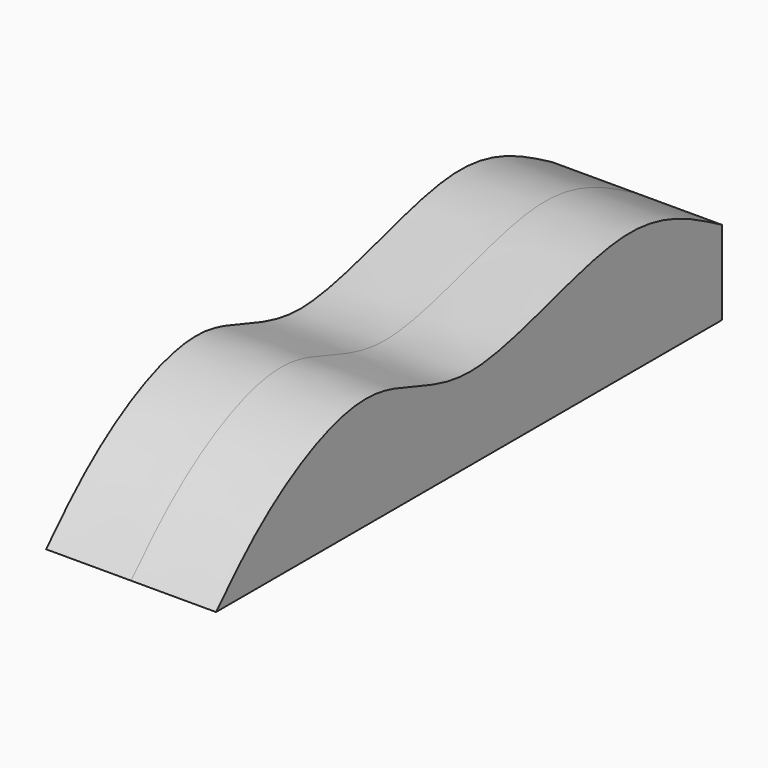
from build123d import *

# Parameters (mm, degrees)
F1_DEPTH = 15


with BuildPart() as f1:
    # F0 (on Right) → F1 (new body)
    with BuildSketch(Plane.YZ):
        with BuildLine():
            add(Edge.make_bspline(
                [(-55.5606980693, 0), (-51.6673719239, 4.1052683078), (-43.4144360964, 12.807471677), (-20.6630697057, 23.9042671323), (-0.3474787341, 8.9177754271), (34.7987202293, 26.8044740202), (49.5058398849, 18.4992658842), (56.0513019307, 14.803)],
                knots=[0, 0, 0, 0, 0.1734167354, 0.3676026962, 0.5604713525, 0.8043860288, 1, 1, 1, 1], degree=3))
            Line((-55.5606980693, 0), (-42.3695630282, 0))
            ThreePointArc((-42.3695630282, 0), (-30.3695630282, 12), (-18.3695630282, 0))
            Line((-18.3695630282, 0), (29.4915357069, 0))
            ThreePointArc((29.4915357069, 0), (38.8891638111, 15.7084417392), (52.8504369718, 3.8698012941))
            ThreePointArc((52.8504369718, 3.8698012941), (52.6890774169, 1.9085281333), (52.2093382366, 0))
            Line((52.2093382366, 0), (56.0513019307, 0))
            Line((56.0513019307, 0), (56.0513019307, 14.803))
        make_face()
        with BuildLine():
            ThreePointArc((-18.3695630282, 0), (-30.3695630282, 12), (-42.3695630282, 0))
            Line((-42.3695630282, 0), (-18.3695630282, 0))
        make_face()
        with BuildLine():
            ThreePointArc((52.8504369718, 3.8698012941), (38.8891638111, 15.7084417392), (29.4915357069, 0))
            Line((29.4915357069, 0), (52.2093382366, 0))
            ThreePointArc((52.2093382366, 0), (52.6890774169, 1.9085281333), (52.8504369718, 3.8698012941))
        make_face()
    extrude(amount=F1_DEPTH)

    # F2: F1 across face


with BuildPart() as f1_1:
    add(f1.part)
    add(f1.part.mirror(Plane.YZ))


solid = f1_1.part
